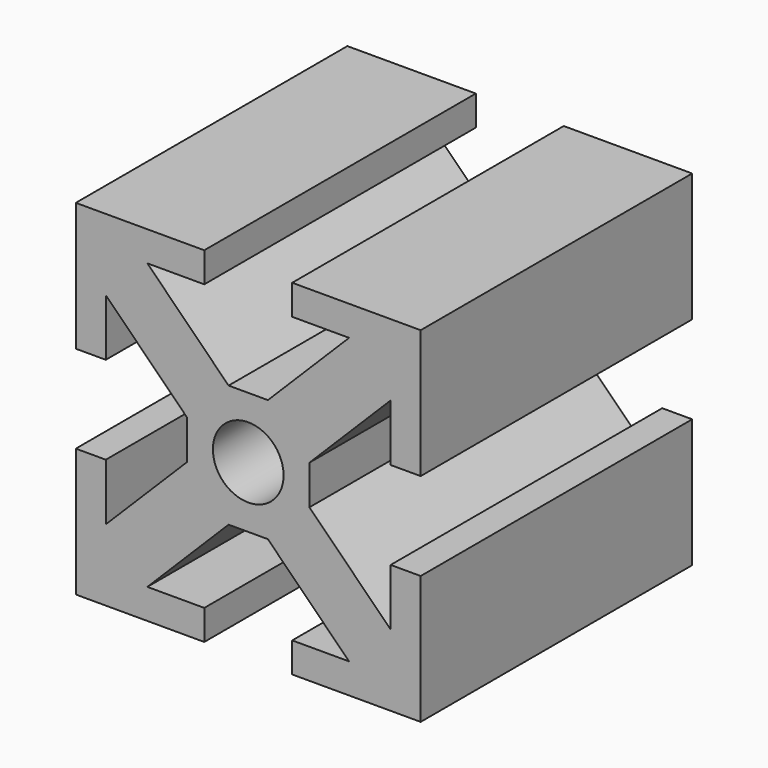
from build123d import *

# Parameters (mm, degrees)
F0_W     = 25.4
F0_H     = 25.4
F0_R     = 2.6035
F1_DEPTH = 12.5
F3_DEPTH = 25.001


with BuildPart() as f1:
    # F0 (on Front) → F1 (new body, symmetric)
    with BuildSketch(Plane.XZ):
        Rectangle(F0_W, F0_H)
        Circle(F0_R, mode=Mode.SUBTRACT)
    extrude(amount=F1_DEPTH, both=True)

    # F2 (on face) → F3 (cut, through all)
    with BuildSketch(Plane.XZ.offset(12.5)):
        Polygon((3.2385, 12.7), (-3.2385, 12.7), (-3.2385, 10.4902), (-7.4295, 10.4902), (-1.4478, 4.5085), (1.4478, 4.5085), (7.4295, 10.4902), (3.2385, 10.4902), align=None)
        Polygon((-12.7, 3.2385), (-12.7, -3.2385), (-10.4902, -3.2385), (-10.4902, -7.4295), (-4.5085, -1.4478), (-4.5085, 1.4478), (-10.4902, 7.4295), (-10.4902, 3.2385), align=None)
        Polygon((-3.2385, -12.7), (3.2385, -12.7), (3.2385, -10.4902), (7.4295, -10.4902), (1.4478, -4.5085), (-1.4478, -4.5085), (-7.4295, -10.4902), (-3.2385, -10.4902), align=None)
        Polygon((12.7, -3.2385), (12.7, 3.2385), (10.4902, 3.2385), (10.4902, 7.4295), (4.5085, 1.4478), (4.5085, -1.4478), (10.4902, -7.4295), (10.4902, -3.2385), align=None)
    extrude(amount=-F3_DEPTH, mode=Mode.SUBTRACT)


solid = f1.part
